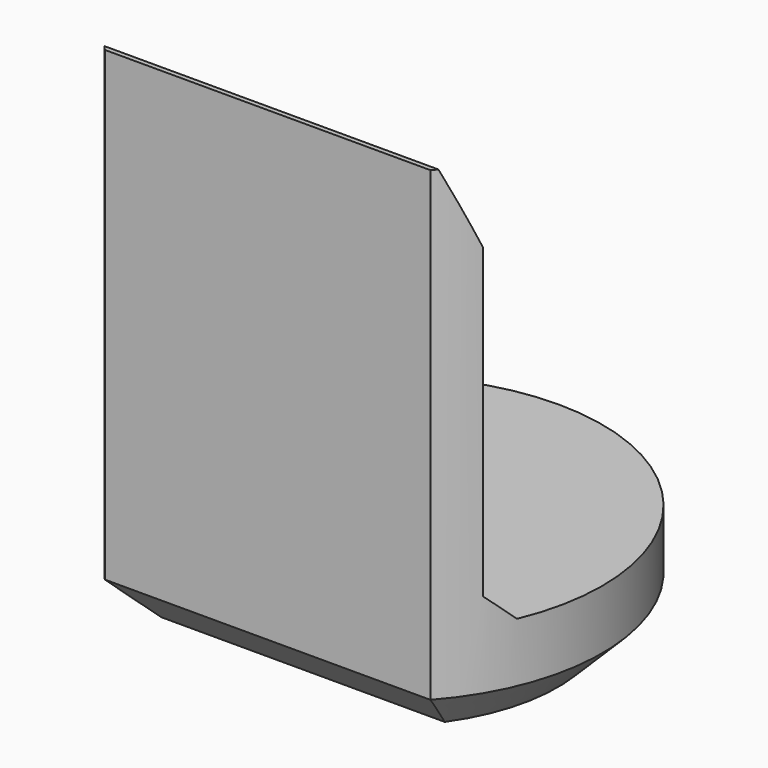
from build123d import *

# Parameters (mm, degrees)
PAD007_DEPTH         = 6.9
POCKET005_DEPTH      = 2.951
POCKET005_DEPTH_BACK = 2.951
CHAMFER008_SIZE      = 0.6


with BuildPart() as part:
    # Sketch018 → Pad007 (new body)
    with BuildSketch(Plane.XY):
        with BuildLine():
            ThreePointArc((2.2, -1.9653244007), (0, 2.95), (-2.2, -1.9653244007))
            Line((-2.2, -1.9653244007), (2.2, -1.9653244007))
        make_face()
    extrude(amount=PAD007_DEPTH)

    # Sketch019 → Pocket005 (cut, two sides)
    with BuildSketch(Plane.YZ) as pocket005_sk:
        Polygon((-1.9, 6.9), (-1.5, 5.9), (-1.5, 1.75), (-1.15, 1.4), (5, 1.4), (5, 6.9), align=None)
    extrude(amount=-POCKET005_DEPTH, mode=Mode.SUBTRACT)
    extrude(pocket005_sk.sketch, amount=POCKET005_DEPTH_BACK, mode=Mode.SUBTRACT)

    # Chamfer008
    chamfer008_edges = [part.edges().sort_by_distance(p)[0] for p in [
        (0, 2.95, 0),
        (0, -1.965324, 0),
    ]]
    chamfer(chamfer008_edges, length=CHAMFER008_SIZE)


with BuildPart() as part_1:
    # Body058 placement: moved
    add(part.part.moved(Location((0, 48, 0))))


solid = part_1.part
